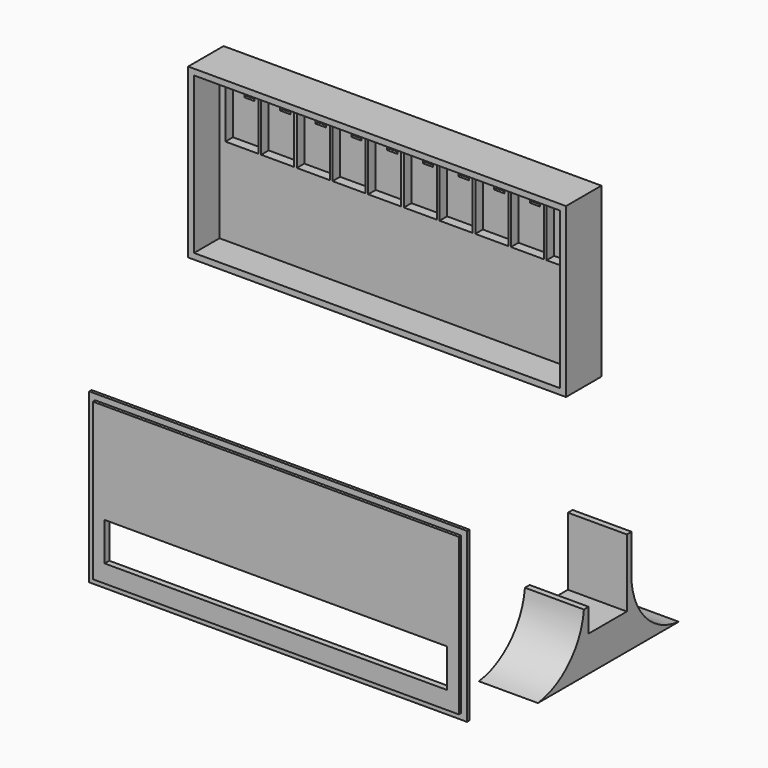
from build123d import *

# Parameters (mm, degrees)
F1_DEPTH  = 15
F2_DEPTH  = 4.2
F0_W      = 3.5
F0_H      = 5.35
F3_DEPTH  = 1
F4_W      = 116.1
F4_H      = 13
F5_DEPTH  = 2
F6_DEPTH  = 1
F8_DEPTH  = 20
F8_FACE_W = 20
F8_FACE_H = 2
F9_DEPTH  = 15


with BuildPart() as f1:
    # F0 (on Front) → F1 (new body)
    with BuildSketch(Plane.XZ):
        Polygon((-70.045013, 26.765566), (-72.045013, 26.765566), (-72.045013, -30.234434), (56.054987, -30.234434), (56.054987, 26.765566), align=None)
        Polygon((-70.045013, -28.234434), (-70.045013, 24.765566), (-68.045013, 24.765566), (54.054987, 24.765566), (54.054987, -28.234434), align=None, mode=Mode.SUBTRACT)
    extrude(amount=F1_DEPTH)

    # F0 (on Front) → F2 (join)
    with BuildSketch(Plane.XZ):
        Polygon((-68.045013, 24.765566), (-70.045013, 24.765566), (-70.045013, -28.234434), (54.054987, -28.234434), (54.054987, 24.765566), align=None)
        Polygon((-68.045013, 1.265566), (-68.045013, 22.765566), (-64.195013, 22.765566), (-56.845013, 22.765566), (-56.845013, 1.265566), align=None, mode=Mode.SUBTRACT)
        Polygon((-55.945013, 1.265566), (-55.945013, 22.765566), (-52.095013, 22.765566), (-44.745013, 22.765566), (-44.745013, 1.265566), align=None, mode=Mode.SUBTRACT)
        Polygon((-43.845013, 1.265566), (-43.845013, 22.765566), (-39.995013, 22.765566), (-32.645013, 22.765566), (-32.645013, 1.265566), align=None, mode=Mode.SUBTRACT)
        Polygon((-31.745013, 1.265566), (-31.745013, 22.765566), (-27.895013, 22.765566), (-20.545013, 22.765566), (-20.545013, 1.265566), align=None, mode=Mode.SUBTRACT)
        Polygon((-19.645013, 1.265566), (-19.645013, 22.765566), (-15.795013, 22.765566), (-8.445013, 22.765566), (-8.445013, 1.265566), align=None, mode=Mode.SUBTRACT)
        Polygon((-7.545013, 1.265566), (-7.545013, 22.765566), (-3.695013, 22.765566), (3.654987, 22.765566), (3.654987, 1.265566), align=None, mode=Mode.SUBTRACT)
        Polygon((4.554987, 1.265566), (4.554987, 22.765566), (8.404987, 22.765566), (15.754987, 22.765566), (15.754987, 1.265566), align=None, mode=Mode.SUBTRACT)
        Polygon((16.654987, 1.265566), (16.654987, 22.765566), (20.504987, 22.765566), (27.854987, 22.765566), (27.854987, 1.265566), align=None, mode=Mode.SUBTRACT)
        Polygon((28.754987, 1.265566), (28.754987, 22.765566), (32.604987, 22.765566), (39.954987, 22.765566), (39.954987, 1.265566), align=None, mode=Mode.SUBTRACT)
        Polygon((40.854987, 1.265566), (40.854987, 22.765566), (44.704987, 22.765566), (48.788905, 22.765566), (52.054987, 22.765566), (52.054987, 1.265566), align=None, mode=Mode.SUBTRACT)
    extrude(amount=F2_DEPTH)

    # F0 (on Front) → F3 (join)
    with BuildSketch(Plane.XZ):
        Polygon((-64.195013, 22.765566), (-68.045013, 22.765566), (-68.045013, 1.265566), (-56.845013, 1.265566), (-56.845013, 22.765566), align=None)
        with Locations((-62.445013, 17.090566)):
            Rectangle(F0_W, F0_H, mode=Mode.SUBTRACT)
        Polygon((-52.095013, 22.765566), (-55.945013, 22.765566), (-55.945013, 1.265566), (-44.745013, 1.265566), (-44.745013, 22.765566), align=None)
        with Locations((-50.345013, 17.090566)):
            Rectangle(F0_W, F0_H, mode=Mode.SUBTRACT)
        Polygon((-39.995013, 22.765566), (-43.845013, 22.765566), (-43.845013, 1.265566), (-32.645013, 1.265566), (-32.645013, 22.765566), align=None)
        with Locations((-38.245013, 17.090566)):
            Rectangle(F0_W, F0_H, mode=Mode.SUBTRACT)
        Polygon((-27.895013, 22.765566), (-31.745013, 22.765566), (-31.745013, 1.265566), (-20.545013, 1.265566), (-20.545013, 22.765566), align=None)
        with Locations((-26.145013, 17.090566)):
            Rectangle(F0_W, F0_H, mode=Mode.SUBTRACT)
        Polygon((-15.795013, 22.765566), (-19.645013, 22.765566), (-19.645013, 1.265566), (-8.445013, 1.265566), (-8.445013, 22.765566), align=None)
        with Locations((-14.045013, 17.090566)):
            Rectangle(F0_W, F0_H, mode=Mode.SUBTRACT)
        Polygon((-3.695013, 22.765566), (-7.545013, 22.765566), (-7.545013, 1.265566), (3.654987, 1.265566), (3.654987, 22.765566), align=None)
        with Locations((-1.945013, 17.090566)):
            Rectangle(F0_W, F0_H, mode=Mode.SUBTRACT)
        Polygon((8.404987, 22.765566), (4.554987, 22.765566), (4.554987, 1.265566), (15.754987, 1.265566), (15.754987, 22.765566), align=None)
        with Locations((10.154987, 17.090566)):
            Rectangle(F0_W, F0_H, mode=Mode.SUBTRACT)
        Polygon((20.504987, 22.765566), (16.654987, 22.765566), (16.654987, 1.265566), (27.854987, 1.265566), (27.854987, 22.765566), align=None)
        with Locations((22.254987, 17.090566)):
            Rectangle(F0_W, F0_H, mode=Mode.SUBTRACT)
        Polygon((32.604987, 22.765566), (28.754987, 22.765566), (28.754987, 1.265566), (39.954987, 1.265566), (39.954987, 22.765566), align=None)
        with Locations((34.354987, 17.090566)):
            Rectangle(F0_W, F0_H, mode=Mode.SUBTRACT)
        Polygon((44.704987, 22.765566), (40.854987, 22.765566), (40.854987, 1.265566), (52.054987, 1.265566), (52.054987, 22.765566), (48.788905, 22.765566), align=None)
        with Locations((46.454987, 17.090566)):
            Rectangle(F0_W, F0_H, mode=Mode.SUBTRACT)
    extrude(amount=F3_DEPTH)


with BuildPart() as f5:
    # F4 (on Front) → F5 (new body)
    with BuildSketch(Plane.XZ):
        Polygon((-112.786285, -92.43428), (-114.786285, -92.43428), (-114.786285, -139.43428), (-114.786285, -145.43428), (9.313715, -145.43428), (9.313715, -92.43428), align=None)
        with Locations((-52.736285, -132.93428)):
            Rectangle(F4_W, F4_H, mode=Mode.SUBTRACT)
    extrude(amount=F5_DEPTH)

    # F4 (on Front) → F6 (join)
    with BuildSketch(Plane.XZ):
        Polygon((-114.786285, -90.43428), (-116.786285, -90.43428), (-116.786285, -147.43428), (11.313715, -147.43428), (11.313715, -90.43428), align=None)
        Polygon((-114.786285, -139.43428), (-114.786285, -92.43428), (-112.786285, -92.43428), (9.313715, -92.43428), (9.313715, -145.43428), (-114.786285, -145.43428), align=None, mode=Mode.SUBTRACT)
    extrude(amount=F6_DEPTH)


with BuildPart() as f8:
    # F7 (on Right) → F8 (new body)
    with BuildSketch(Plane.YZ):
        with BuildLine():
            Line((64.666786, -143.442418), (62.666786, -143.442418))
            ThreePointArc((62.666786, -143.442418), (56.424614, -156.862934), (43.166399, -163.442805))
            Line((43.166399, -163.442805), (63.166399, -163.442805))
            Line((63.166399, -163.442805), (82.866786, -163.442805))
            Line((82.866786, -163.442805), (102.866786, -163.442805))
            ThreePointArc((102.866786, -163.442805), (89.301976, -157.007353), (82.866786, -143.442418))
            Line((82.866786, -143.442418), (80.866786, -143.442418))
            Line((80.866786, -143.442418), (80.866786, -151.442805))
            Line((80.866786, -151.442805), (64.666786, -151.442805))
            Line((64.666786, -151.442805), (64.666786, -143.442418))
        make_face()
    extrude(amount=-F8_DEPTH)

    # F8_face (on face) → F9 (join)
    with BuildSketch(Plane(origin=(-10, 81.866786, -143.442418), x_dir=(1, 0, 0), z_dir=(0, 0, 1))):
        Rectangle(F8_FACE_W, F8_FACE_H)
    extrude(amount=F9_DEPTH)


solid = Compound([f1.part, f5.part, f8.part])
